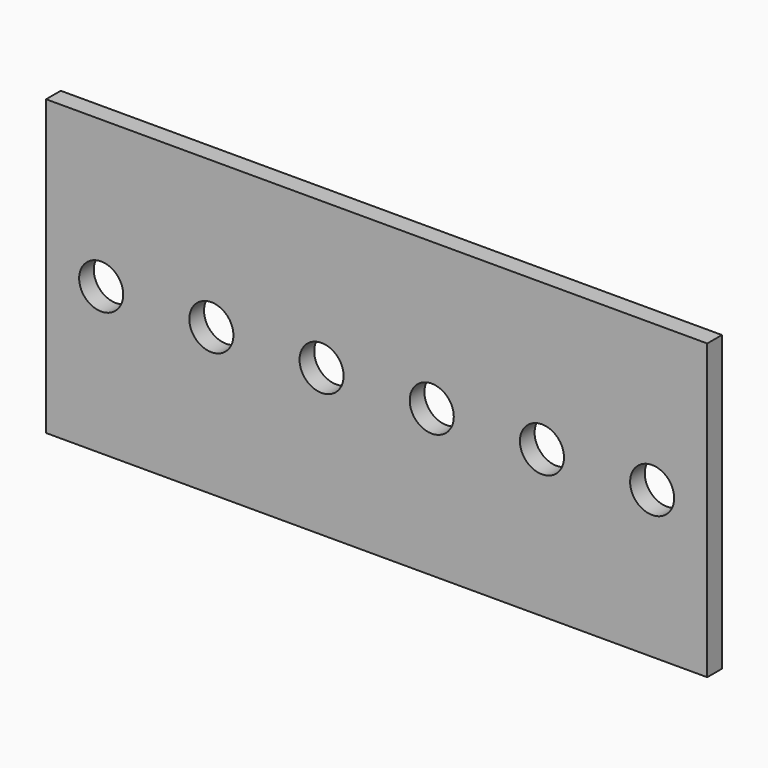
from build123d import *

# Parameters (mm, degrees)
F0_W     = 114.3
F0_H     = 50.8
F0_R     = 3.81
F1_DEPTH = 3.175


with BuildPart() as f1:
    # F0 (on Front) → F1 (new body)
    with BuildSketch(Plane.XZ):
        Rectangle(F0_W, F0_H)
        with Locations((-47.625, 0)):
            Circle(F0_R, mode=Mode.SUBTRACT)
        with Locations((-28.575, 0)):
            Circle(F0_R, mode=Mode.SUBTRACT)
        with Locations((-9.525, 0)):
            Circle(F0_R, mode=Mode.SUBTRACT)
        with Locations((9.525, 0)):
            Circle(F0_R, mode=Mode.SUBTRACT)
        with Locations((28.575, 0)):
            Circle(F0_R, mode=Mode.SUBTRACT)
        with Locations((47.625, 0)):
            Circle(F0_R, mode=Mode.SUBTRACT)
    extrude(amount=F1_DEPTH)


solid = f1.part
